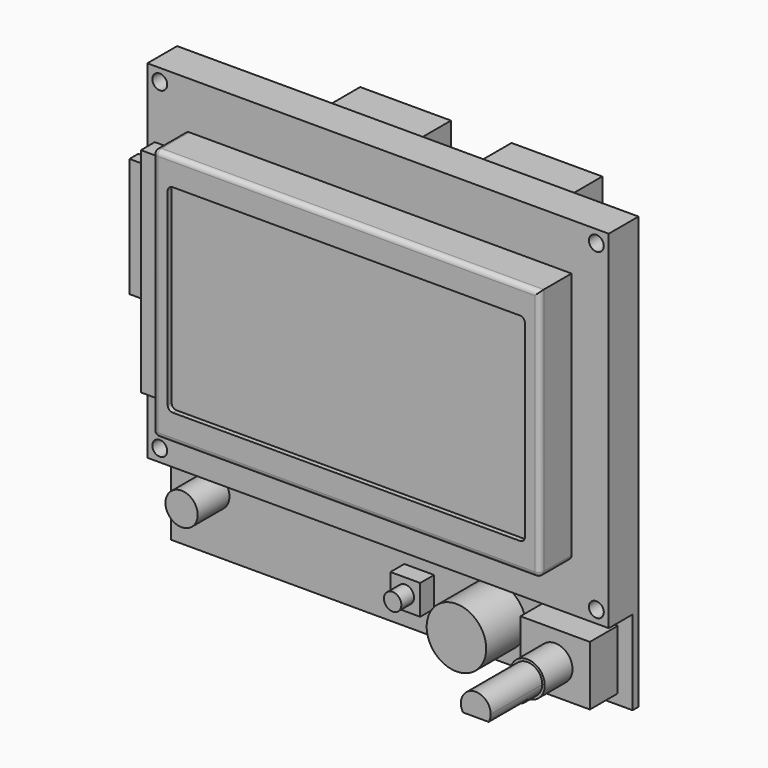
from build123d import *

# Parameters (mm, degrees)
F0_W      = 93
F0_H      = 70
F0_R      = 1.5
F0_H_2    = 17
F0_R_2    = 3.25
F0_W_2    = 6
F0_H_3    = 6
F0_R_3    = 6
F0_W_3    = 14
F0_H_4    = 12
F0_R_4    = 3.5
F0_R_5    = 1.75
F1_DEPTH  = 1.5
F2_W      = 20.3
F2_H      = 8.7
F2_W_2    = 18.3
F2_H_2    = 6.7
F3_DEPTH  = 9
F2_W_3    = 26
F2_H_3    = 26.35
F4_DEPTH  = 3.5
F5_DEPTH  = 18.5
F6_DEPTH  = 6
F2_W_4    = 50
F2_H_4    = 1.5
F7_DEPTH  = 4
F8_DEPTH  = 10
F9_DEPTH  = 3.5
F10_DEPTH = 6.7
F11_DEPTH = 27
F12_DEPTH = 17
F13_DEPTH = 14
F14_DEPTH = 7
F15_DEPTH = 8
F16_W     = 6
F16_H     = 43
F17_DEPTH = 3.5
F18_DEPTH = 8
F19_R     = 1
F21_DEPTH = 1
F22_W     = 2.2
F22_H     = 24
F23_DEPTH = 10


with BuildPart() as f1:
    # F0 (on Front) → F1 (new body)
    with BuildSketch(Plane.XZ):
        with Locations((46.5, 52)):
            Rectangle(F0_W, F0_H)
        with Locations((2.5, 19.5)):
            Circle(F0_R, mode=Mode.SUBTRACT)
        with Locations((90.5, 19.5)):
            Circle(F0_R, mode=Mode.SUBTRACT)
        with Locations((2.5, 84.5)):
            Circle(F0_R, mode=Mode.SUBTRACT)
        with Locations((90.5, 84.5)):
            Circle(F0_R, mode=Mode.SUBTRACT)
        with Locations((46.5, 8.5)):
            Rectangle(F0_W, F0_H_2)
        with Locations((8.5, 11.5)):
            Circle(F0_R_2, mode=Mode.SUBTRACT)
        with Locations((50, 8)):
            Rectangle(F0_W_2, F0_H_3, mode=Mode.SUBTRACT)
        with Locations((65.5, 8)):
            Circle(F0_R_3, mode=Mode.SUBTRACT)
        with Locations((83, 8)):
            Rectangle(F0_W_3, F0_H_4, mode=Mode.SUBTRACT)
        with Locations((83, 8)):
            Rectangle(F0_W_3, F0_H_4)
        with Locations((83, 8)):
            Circle(F0_R_4, mode=Mode.SUBTRACT)
        with Locations((65.5, 8)):
            Circle(F0_R_3)
        with Locations((83, 8)):
            Circle(F0_R_4)
        with BuildLine():
            ThreePointArc((80.4019237886, 6.5), (82.2235428647, 10.8977774789), (86, 8))
            ThreePointArc((86, 8), (85.8977774789, 7.2235428647), (85.5980762114, 6.5))
            ThreePointArc((85.5980762114, 6.5), (83, 5), (80.4019237886, 6.5))
        make_face(mode=Mode.SUBTRACT)
        with Locations((50, 8)):
            Rectangle(F0_W_2, F0_H_3)
        with Locations((50, 8)):
            Circle(F0_R_5, mode=Mode.SUBTRACT)
        with Locations((8.5, 11.5)):
            Circle(F0_R_2)
        with BuildLine():
            ThreePointArc((85.5980762114, 6.5), (85.8977774789, 7.2235428647), (86, 8))
            ThreePointArc((86, 8), (82.2235428647, 10.8977774789), (80.4019237886, 6.5))
            Line((80.4019237886, 6.5), (85.5980762114, 6.5))
        make_face()
        with Locations((50, 8)):
            Circle(F0_R_5)
        with BuildLine():
            Line((85.5980762114, 6.5), (80.4019237886, 6.5))
            ThreePointArc((80.4019237886, 6.5), (83, 5), (85.5980762114, 6.5))
        make_face()
    extrude(amount=-F1_DEPTH)

    # F2 (on face) → F3 (join)
    with BuildSketch(Plane(origin=(0, 1.5, 0), x_dir=(-1, 0, 0), z_dir=(0, 1, 0))):
        with Locations((-61.75, 76.05)):
            Rectangle(F2_W, F2_H)
        with Locations((-61.75, 76.05)):
            Rectangle(F2_W_2, F2_H_2, mode=Mode.SUBTRACT)
        with Locations((-31.25, 76.05)):
            Rectangle(F2_W, F2_H)
        with Locations((-31.25, 76.05)):
            Rectangle(F2_W_2, F2_H_2, mode=Mode.SUBTRACT)
    extrude(amount=F3_DEPTH)

    # F2 (on face) → F4 (join)
    with BuildSketch(Plane(origin=(0, 1.5, 0), x_dir=(-1, 0, 0), z_dir=(0, 1, 0))):
        with Locations((-13, 51.525)):
            Rectangle(F2_W_3, F2_H_3)
    extrude(amount=F4_DEPTH)

    # F5 (add): faces of the model
    f5_faces = [f1.faces().sort_by_distance(p)[0] for p in [
        (61.75, 1.5, 76.05),
        (31.25, 1.5, 76.05),
    ]]
    extrude(f5_faces, amount=F5_DEPTH)

    # F0 (on Front) → F6 (join)
    with BuildSketch(Plane.XZ):
        with Locations((46.5, 52)):
            Rectangle(F0_W, F0_H)
        with Locations((2.5, 19.5)):
            Circle(F0_R, mode=Mode.SUBTRACT)
        with Locations((90.5, 19.5)):
            Circle(F0_R, mode=Mode.SUBTRACT)
        with Locations((2.5, 84.5)):
            Circle(F0_R, mode=Mode.SUBTRACT)
        with Locations((90.5, 84.5)):
            Circle(F0_R, mode=Mode.SUBTRACT)
    extrude(amount=F6_DEPTH)

    # F2 (on face) → F7 (join)
    with BuildSketch(Plane(origin=(0, 1.5, 0), x_dir=(-1, 0, 0), z_dir=(0, 1, 0))):
        with Locations((-38, 19.5)):
            Rectangle(F2_W_4, F2_H_4)
    extrude(amount=F7_DEPTH)

    # F0 (on Front) → F8 (join)
    with BuildSketch(Plane.XZ):
        with Locations((65.5, 8)):
            Circle(F0_R_3)
    extrude(amount=F8_DEPTH)

    # F0 (on Front) → F9 (join)
    with BuildSketch(Plane.XZ):
        with Locations((50, 8)):
            Rectangle(F0_W_2, F0_H_3)
        with Locations((50, 8)):
            Circle(F0_R_5, mode=Mode.SUBTRACT)
    extrude(amount=F9_DEPTH)

    # F0 (on Front) → F10 (join)
    with BuildSketch(Plane.XZ):
        with Locations((50, 8)):
            Circle(F0_R_5)
    extrude(amount=F10_DEPTH)

    # F0 (on Front) → F11 (join)
    with BuildSketch(Plane.XZ):
        with BuildLine():
            ThreePointArc((85.5980762114, 6.5), (85.8977774789, 7.2235428647), (86, 8))
            ThreePointArc((86, 8), (82.2235428647, 10.8977774789), (80.4019237886, 6.5))
            Line((80.4019237886, 6.5), (85.5980762114, 6.5))
        make_face()
    extrude(amount=F11_DEPTH)

    # F0 (on Front) → F12 (join)
    with BuildSketch(Plane.XZ):
        with BuildLine():
            Line((85.5980762114, 6.5), (80.4019237886, 6.5))
            ThreePointArc((80.4019237886, 6.5), (83, 5), (85.5980762114, 6.5))
        make_face()
    extrude(amount=F12_DEPTH)

    # F0 (on Front) → F13 (join)
    with BuildSketch(Plane.XZ):
        with Locations((83, 8)):
            Circle(F0_R_4)
        with BuildLine():
            ThreePointArc((80.4019237886, 6.5), (82.2235428647, 10.8977774789), (86, 8))
            ThreePointArc((86, 8), (85.8977774789, 7.2235428647), (85.5980762114, 6.5))
            ThreePointArc((85.5980762114, 6.5), (83, 5), (80.4019237886, 6.5))
        make_face(mode=Mode.SUBTRACT)
        with BuildLine():
            Line((85.5980762114, 6.5), (80.4019237886, 6.5))
            ThreePointArc((80.4019237886, 6.5), (83, 5), (85.5980762114, 6.5))
        make_face()
        with BuildLine():
            ThreePointArc((85.5980762114, 6.5), (85.8977774789, 7.2235428647), (86, 8))
            ThreePointArc((86, 8), (82.2235428647, 10.8977774789), (80.4019237886, 6.5))
            Line((80.4019237886, 6.5), (85.5980762114, 6.5))
        make_face()
    extrude(amount=F13_DEPTH)

    # F0 (on Front) → F14 (join)
    with BuildSketch(Plane.XZ):
        with Locations((83, 8)):
            Rectangle(F0_W_3, F0_H_4)
        with Locations((83, 8)):
            Circle(F0_R_4, mode=Mode.SUBTRACT)
    extrude(amount=F14_DEPTH)

    # F0 (on Front) → F15 (join)
    with BuildSketch(Plane.XZ):
        with Locations((8.5, 11.5)):
            Circle(F0_R_2)
    extrude(amount=F15_DEPTH)

    # F16 (on face) → F17 (join)
    with BuildSketch(Plane.XZ.offset(6)):
        with Locations((4.5, 52)):
            Rectangle(F16_W, F16_H)
    extrude(amount=F17_DEPTH)

    # F16 (on face) → F18 (join)
    with BuildSketch(Plane.XZ.offset(6)):
        Polygon((85.5, 77.5), (7.5, 77.5), (7.5, 73.5), (7.5, 30.5), (7.5, 26.5), (85.5, 26.5), align=None)
    extrude(amount=F18_DEPTH)

    # F19
    f19_edges = [f1.edges().sort_by_distance(p)[0] for p in [
        (7.5, -14, 52),
        (46.5, -14, 77.5),
        (46.5, -14, 26.5),
        (85.5, -14, 52),
        (7.5, -10, 26.5),
        (85.5, -10, 26.5),
        (7.5, -10, 77.5),
    ]]
    fillet(f19_edges, radius=F19_R)

    # F20 (on face) → F21 (cut)
    with BuildSketch(Plane.XZ.offset(14)):
        with BuildLine():
            Line((81.5, 72), (11.5, 72))
            ThreePointArc((11.5, 72), (10.7928932188, 71.7071067812), (10.5, 71))
            Line((10.5, 71), (10.5, 33))
            ThreePointArc((10.5, 33), (10.7928932188, 32.2928932188), (11.5, 32))
            Line((11.5, 32), (81.5, 32))
            ThreePointArc((81.5, 32), (82.2071067812, 32.2928932188), (82.5, 33))
            Line((82.5, 33), (82.5, 71))
            ThreePointArc((82.5, 71), (82.2071067812, 71.7071067812), (81.5, 72))
        make_face()
    extrude(amount=-F21_DEPTH, mode=Mode.SUBTRACT)

    # F22 (on face) → F23 (join)
    with BuildSketch(Plane(origin=(0, 0, 0), x_dir=(0, -1, 0), z_dir=(-1, 0, 0))):
        with Locations((-3.1, 51.525)):
            Rectangle(F22_W, F22_H)
    extrude(amount=F23_DEPTH)


solid = f1.part
